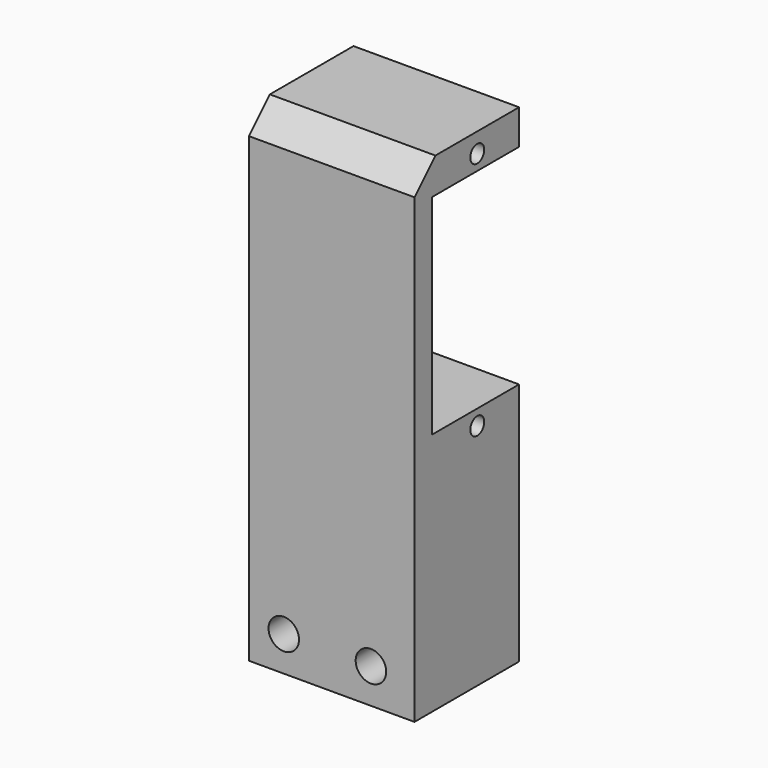
from build123d import *

# Parameters (mm, degrees)
CYLINDER075_R          = 1.75
CYLINDER075_DEPTH      = 32
PRISM001_DEPTH         = 10
SKETCH015_R            = 1
SKETCH015_W            = 24
SKETCH015_H            = 13
PAD010_DEPTH           = 30
CYLINDER073_R          = 1.75
CYLINDER073_DEPTH      = 32
CYLINDER073_ROLL_ANGLE = -90
CYLINDER074_R          = 1.75
CYLINDER074_DEPTH      = 32
CYLINDER074_ROLL_ANGLE = -90
BOX054_W               = 19
BOX054_H               = 15
BOX054_DEPTH           = 56
CHAMFER108_SIZE        = 3


with BuildPart() as cilindro016:
    # Cylinder075 → Cylinder075 (new body)
    with BuildSketch(Plane(origin=(-5, 104, 125.85), x_dir=(0, -1, 0), z_dir=(1, 0, 0))):
        Circle(CYLINDER075_R)
    extrude(amount=CYLINDER075_DEPTH)


with BuildPart() as fusion057:
    # Prism001 → Prism001 (new body)
    with BuildSketch(Plane(origin=(6, 104, 125.85), x_dir=(0, -1, 0), z_dir=(1, 0, 0))):
        Polygon((3.3, 0), (1.65, 2.857884), (-1.65, 2.857884), (-3.3, 0), (-1.65, -2.857884), (1.65, -2.857884), align=None)
    extrude(amount=PRISM001_DEPTH)

    # Fusion057: union Cilindro016
    add(cilindro016.part)


with BuildPart() as pad010:
    # Sketch015 → Pad010 (new body)
    with BuildSketch(Plane(origin=(38, -16, 143.25), x_dir=(0, 0, -1), z_dir=(1, 0, 0))):
        with Locations((37, 120)):
            Circle(SKETCH015_R)
        with Locations((9.5, 120)):
            Circle(SKETCH015_R)
        with Locations((23.25, 120)):
            Rectangle(SKETCH015_W, SKETCH015_H)
    extrude(amount=-PAD010_DEPTH)


with BuildPart() as cilindro014:
    # Cylinder073 → Cylinder073 (new body)
    with BuildSketch(Plane.XY):
        Circle(CYLINDER073_R)
    extrude(amount=CYLINDER073_DEPTH)


with BuildPart() as cilindro014_1:
    # Cylinder073 roll: moved
    add(cilindro014.part.rotate(Axis((0, 0, 0), (1, 0, 0)), CYLINDER073_ROLL_ANGLE))


with BuildPart() as cilindro014_2:
    # Cylinder073 placement: moved
    add(cilindro014_1.part.moved(Location((8, 90, 84))))


with BuildPart() as fusion056:
    # Cylinder074 → Cylinder074 (new body)
    with BuildSketch(Plane.XY):
        Circle(CYLINDER074_R)
    extrude(amount=CYLINDER074_DEPTH)


with BuildPart() as fusion056_1:
    # Cylinder074 roll: moved
    add(fusion056.part.rotate(Axis((0, 0, 0), (1, 0, 0)), CYLINDER074_ROLL_ANGLE))


with BuildPart() as fusion056_2:
    # Cylinder074 placement: moved
    add(fusion056_1.part.moved(Location((18, 90, 84))))

    # Fusion056: union Cilindro014
    add(cilindro014_2.part)


with BuildPart() as clone_of_cut100:
    # Box054 → Box054 (new body)
    with BuildSketch(Plane(origin=(4, 98, 80), x_dir=(1, 0, 0), z_dir=(0, 0, 1))):
        with Locations((9.5, 7.5)):
            Rectangle(BOX054_W, BOX054_H)
    extrude(amount=BOX054_DEPTH)

    # Cut098: cut Fusion056
    add(fusion056_2.part, mode=Mode.SUBTRACT)

    # Cut099: cut Pad010
    add(pad010.part, mode=Mode.SUBTRACT)

    # Chamfer108
    chamfer108_edges = [clone_of_cut100.edges().sort_by_distance(p)[0] for p in [
        (13.5, 113, 136),
    ]]
    chamfer(chamfer108_edges, length=CHAMFER108_SIZE)

    # Cut100: cut Fusion057
    add(fusion057.part, mode=Mode.SUBTRACT)


with BuildPart() as part_mirroring007009:
    # Part__Mirroring007009: instance of Clone of Cut100
    add(clone_of_cut100.part.mirror(Plane(origin=(0, 0, 0), x_dir=(1, 0, 0), z_dir=(0, 1, 0))))


with BuildPart() as part_mirroring007009_1:
    # Part__Mirroring007009 placement: moved
    add(part_mirroring007009.part.moved(Location((0, 72, 0))))


solid = part_mirroring007009_1.part
